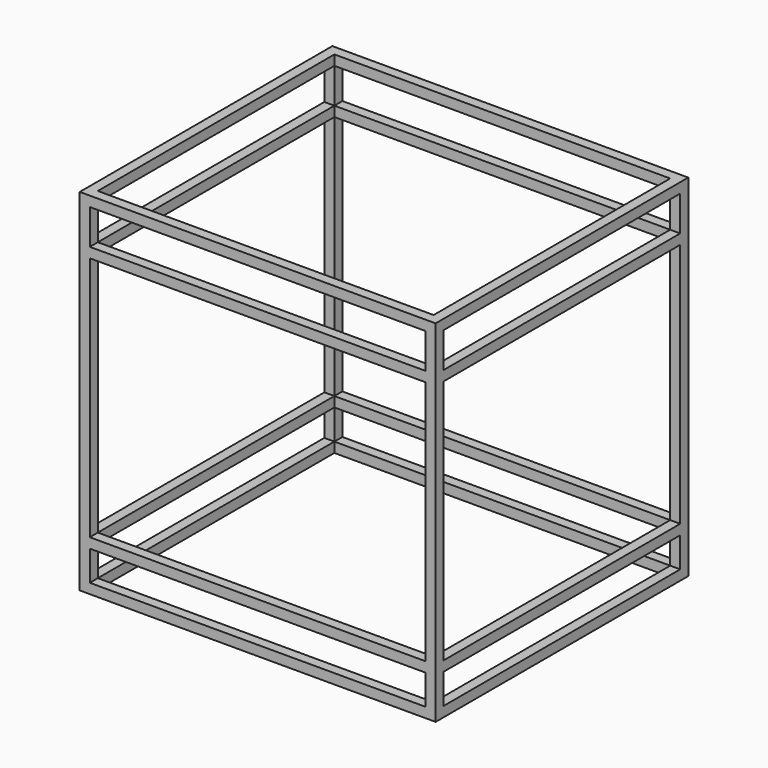
from build123d import *

# Parameters (mm, degrees)
BOX001_W         = 20
BOX001_H         = 590
BOX001_DEPTH     = 20
ARRAY001_X_COUNT = 2
ARRAY001_X_PITCH = 690
ARRAY001_Z_COUNT = 2
ARRAY001_Z_PITCH = 80
BOX003_W         = 20
BOX003_H         = 590
BOX003_DEPTH     = 20
ARRAY002_X_COUNT = 2
ARRAY002_X_PITCH = 690
ARRAY002_Z_COUNT = 2
ARRAY002_Z_PITCH = 90
BOX002_W         = 670
BOX002_H         = 20
BOX002_DEPTH     = 20
ARRAY003_Y_COUNT = 2
ARRAY003_Y_PITCH = 610
ARRAY003_Z_COUNT = 2
ARRAY003_Z_PITCH = 80
BOX004_W         = 670
BOX004_H         = 20
BOX004_DEPTH     = 20
ARRAY004_Y_COUNT = 2
ARRAY004_Y_PITCH = 610
ARRAY004_Z_COUNT = 2
ARRAY004_Z_PITCH = 90
BOX_W            = 20
BOX_H            = 20
BOX_DEPTH        = 700
ARRAY_X_COUNT    = 2
ARRAY_X_PITCH    = 690
ARRAY_Y_COUNT    = 2
ARRAY_Y_PITCH    = 610


with BuildPart() as laterales_inferiores:
    # Box001 → Box001 (new body)
    with BuildSketch(Plane(origin=(0, 20, 0), x_dir=(1, 0, 0), z_dir=(0, 0, 1))):
        with Locations((10, 295)):
            Rectangle(BOX001_W, BOX001_H)
    extrude(amount=BOX001_DEPTH)

    # Array001 X: Laterales inferiores ×2


with BuildPart() as laterales_inferiores_1:
    add(laterales_inferiores.part)
    with Locations(*[(i * ARRAY001_X_PITCH, 0, 0) for i in range(1, ARRAY001_X_COUNT)]):
        add(laterales_inferiores.part)

    # Array001 Z: Laterales inferiores ×2


with BuildPart() as laterales_inferiores_2:
    add(laterales_inferiores_1.part)
    with Locations(*[(0, 0, i * ARRAY001_Z_PITCH) for i in range(1, ARRAY001_Z_COUNT)]):
        add(laterales_inferiores_1.part)


with BuildPart() as laterales_superiores:
    # Box003 → Box003 (new body)
    with BuildSketch(Plane(origin=(0, 20, 0), x_dir=(1, 0, 0), z_dir=(0, 0, 1))):
        with Locations((10, 295)):
            Rectangle(BOX003_W, BOX003_H)
    extrude(amount=BOX003_DEPTH)

    # Array002 X: Laterales Superiores ×2


with BuildPart() as laterales_superiores_1:
    add(laterales_superiores.part)
    with Locations(*[(i * ARRAY002_X_PITCH, 0, 0) for i in range(1, ARRAY002_X_COUNT)]):
        add(laterales_superiores.part)

    # Array002 Z: Laterales Superiores ×2


with BuildPart() as laterales_superiores_2:
    add(laterales_superiores_1.part)
    with Locations(*[(0, 0, i * ARRAY002_Z_PITCH) for i in range(1, ARRAY002_Z_COUNT)]):
        add(laterales_superiores_1.part)


with BuildPart() as laterales_superiores_3:
    # Array002 placement: moved
    add(laterales_superiores_2.part.moved(Location((0, 0, 590))))


with BuildPart() as frontales_inferiores:
    # Box002 → Box002 (new body)
    with BuildSketch(Plane(origin=(20, 0, 0), x_dir=(1, 0, 0), z_dir=(0, 0, 1))):
        with Locations((335, 10)):
            Rectangle(BOX002_W, BOX002_H)
    extrude(amount=BOX002_DEPTH)

    # Array003 Y: Frontales inferiores ×2


with BuildPart() as frontales_inferiores_1:
    add(frontales_inferiores.part)
    with Locations(*[(0, i * ARRAY003_Y_PITCH, 0) for i in range(1, ARRAY003_Y_COUNT)]):
        add(frontales_inferiores.part)

    # Array003 Z: Frontales inferiores ×2


with BuildPart() as frontales_inferiores_2:
    add(frontales_inferiores_1.part)
    with Locations(*[(0, 0, i * ARRAY003_Z_PITCH) for i in range(1, ARRAY003_Z_COUNT)]):
        add(frontales_inferiores_1.part)


with BuildPart() as frontales_superiores:
    # Box004 → Box004 (new body)
    with BuildSketch(Plane(origin=(20, 0, 0), x_dir=(1, 0, 0), z_dir=(0, 0, 1))):
        with Locations((335, 10)):
            Rectangle(BOX004_W, BOX004_H)
    extrude(amount=BOX004_DEPTH)

    # Array004 Y: Frontales superiores ×2


with BuildPart() as frontales_superiores_1:
    add(frontales_superiores.part)
    with Locations(*[(0, i * ARRAY004_Y_PITCH, 0) for i in range(1, ARRAY004_Y_COUNT)]):
        add(frontales_superiores.part)

    # Array004 Z: Frontales superiores ×2


with BuildPart() as frontales_superiores_2:
    add(frontales_superiores_1.part)
    with Locations(*[(0, 0, i * ARRAY004_Z_PITCH) for i in range(1, ARRAY004_Z_COUNT)]):
        add(frontales_superiores_1.part)


with BuildPart() as frontales_superiores_3:
    # Array004 placement: moved
    add(frontales_superiores_2.part.moved(Location((0, 0, 590))))


with BuildPart() as obj1:
    # Box → Box (new body)
    with BuildSketch(Plane.XY):
        with Locations((10, 10)):
            Rectangle(BOX_W, BOX_H)
    extrude(amount=BOX_DEPTH)

    # Array X: obj1_2


with BuildPart() as obj1_1:
    add(obj1.part)
    with Locations(*[(i * ARRAY_X_PITCH, 0, 0) for i in range(1, ARRAY_X_COUNT)]):
        add(obj1.part)

    # Array Y: obj1_2


with BuildPart() as obj1_2:
    add(obj1_1.part)
    with Locations(*[(0, i * ARRAY_Y_PITCH, 0) for i in range(1, ARRAY_Y_COUNT)]):
        add(obj1_1.part)

    # Fusion: union Laterales inferiores, Laterales Superiores, Frontales inferiores, Frontales superiores
    add(laterales_inferiores_2.part)
    add(laterales_superiores_3.part)
    add(frontales_inferiores_2.part)
    add(frontales_superiores_3.part)


solid = obj1_2.part
